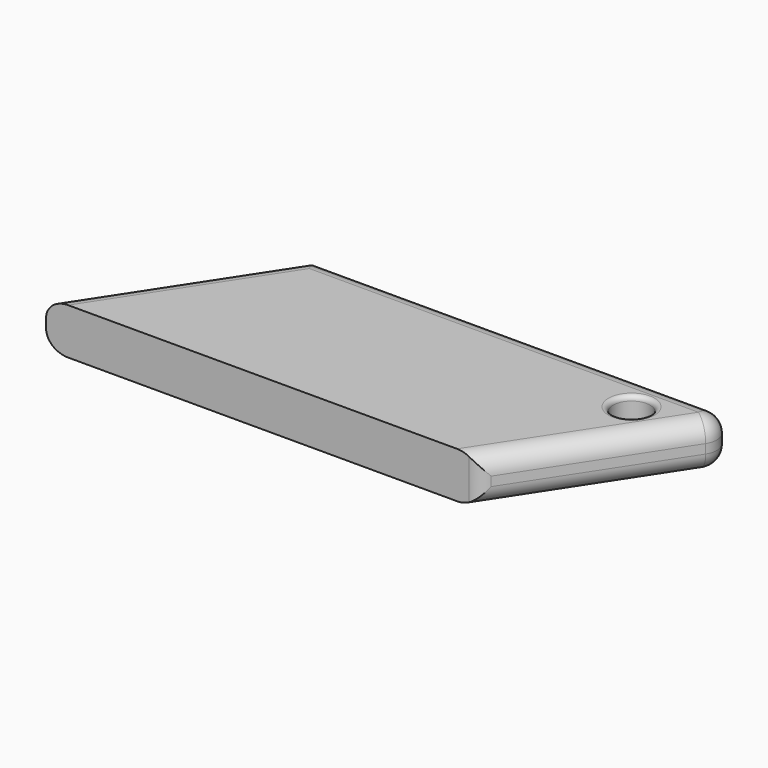
from build123d import *

# Parameters (mm, degrees)
F1_DEPTH = 5
F2_R     = 2
F3_R     = 2
F4_DEPTH = 25.4
F5_R     = 0.5


with BuildPart() as f1:
    # F0 (on Top) → F1 (new body)
    with BuildSketch(Plane.XY):
        Polygon((-30, -10), (16.9377624965, -10), (30, 10), (-16.9377624965, 10), align=None)
    extrude(amount=F1_DEPTH)

    # F2
    f2_edges = [f1.edges().sort_by_distance(p)[0] for p in [
        (6.531119, 10, 5),
        (-23.468881, 0, 5),
        (23.468881, 0, 5),
        (16.937762, -10, 2.5),
        (30, 10, 2.5),
        (23.468881, 0, 0),
        (6.531119, 10, 0),
        (-23.468881, 0, 0),
    ]]
    fillet(f2_edges, radius=F2_R)

    # F3 (on face) → F4 (cut)
    with BuildSketch(Plane.XY.offset(5)):
        with Locations((21.2572028662, 5.2613858901)):
            Circle(F3_R)
    extrude(amount=-F4_DEPTH, mode=Mode.SUBTRACT)

    # F5
    f5_edges = [f1.edges().sort_by_distance(p)[0] for p in [
        (19.257203, 5.261386, 5),
        (19.257203, 5.261386, 0),
    ]]
    fillet(f5_edges, radius=F5_R)


solid = f1.part
